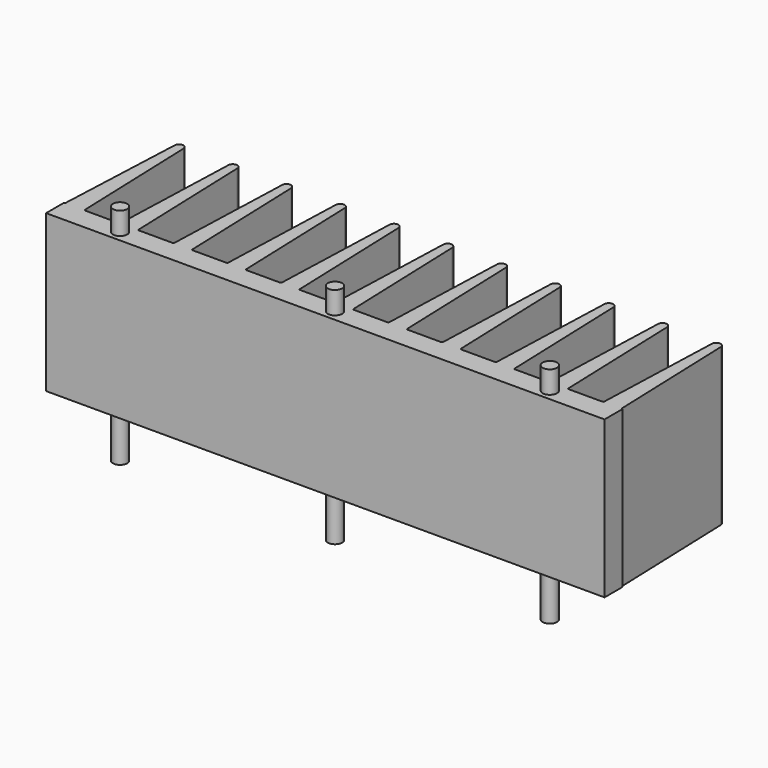
from build123d import *

# Parameters (mm, degrees)
PAD_DEPTH         = 35
CYLINDER_R        = 1.6
CYLINDER_DEPTH    = 50
CYLINDER001_R     = 1.6
CYLINDER001_DEPTH = 50
CYLINDER002_R     = 1.6
CYLINDER002_DEPTH = 50


with BuildPart() as body:
    # Sketch → Pad (new body)
    with BuildSketch(Plane.XY):
        with BuildLine():
            Line((62.24886, -2.54), (-62.5, -2.54))
            Line((-62.5, -2.54), (-62.5, 2.46126))
            ThreePointArc((-62.5, 2.46126), (-62.323223, 2.534483), (-62.25, 2.71126))
            Line((-62.25, 2.71126), (-60.98988, 31.46298))
            ThreePointArc((-59.00988, 31.46298), (-59.99988, 32.45298), (-60.98988, 31.46298))
            Line((-59.00988, 31.46298), (-58, 2.71126))
            ThreePointArc((-58, 2.71126), (-57.926777, 2.534483), (-57.75, 2.46126))
            Line((-57.75, 2.46126), (-50.2499, 2.46126))
            ThreePointArc((-50.2499, 2.46126), (-50.073123, 2.534483), (-49.9999, 2.71126))
            Line((-49.9999, 2.71126), (-48.99092, 31.46298))
            ThreePointArc((-47.01092, 31.46298), (-48.00092, 32.45298), (-48.99092, 31.46298))
            Line((-47.01092, 31.46298), (-46.00194, 2.71126))
            ThreePointArc((-46.00194, 2.71126), (-45.928717, 2.534483), (-45.75194, 2.46126))
            Line((-45.75194, 2.46126), (-38.2484, 2.46126))
            ThreePointArc((-38.2484, 2.46126), (-38.071623, 2.534483), (-37.9984, 2.71126))
            Line((-37.9984, 2.71126), (-36.98942, 31.46298))
            ThreePointArc((-35.00942, 31.46298), (-35.99942, 32.45298), (-36.98942, 31.46298))
            Line((-35.00942, 31.46298), (-34.00044, 2.71126))
            ThreePointArc((-34.00044, 2.71126), (-33.927217, 2.534483), (-33.75044, 2.46126))
            Line((-33.75044, 2.46126), (-26.24898, 2.46126))
            ThreePointArc((-26.24898, 2.46126), (-26.072203, 2.534483), (-25.99898, 2.71126))
            Line((-25.99898, 2.71126), (-24.99, 31.46298))
            ThreePointArc((-23.01, 31.46298), (-24, 32.45298), (-24.99, 31.46298))
            Line((-23.01, 31.46298), (-22.00102, 2.71126))
            ThreePointArc((-22.00102, 2.71126), (-21.927797, 2.534483), (-21.75102, 2.46126))
            Line((-21.75102, 2.46126), (-14.24898, 2.46126))
            ThreePointArc((-14.24898, 2.46126), (-14.072203, 2.534483), (-13.99898, 2.71126))
            Line((-13.99898, 2.71126), (-12.99, 31.46298))
            ThreePointArc((-11.01, 31.46298), (-12, 32.45298), (-12.99, 31.46298))
            Line((-11.01, 31.46298), (-10.00102, 2.71126))
            ThreePointArc((-10.00102, 2.71126), (-9.927797, 2.534483), (-9.75102, 2.46126))
            Line((-9.75102, 2.46126), (-2.24898, 2.46126))
            ThreePointArc((-2.24898, 2.46126), (-2.072203, 2.534483), (-1.99898, 2.71126))
            Line((-1.99898, 2.71126), (-0.99, 31.46298))
            ThreePointArc((0.99, 31.46298), (0, 32.45298), (-0.99, 31.46298))
            Line((0.99, 31.46298), (1.99898, 2.71126))
            ThreePointArc((1.99898, 2.71126), (2.072203, 2.534483), (2.24898, 2.46126))
            Line((2.24898, 2.46126), (9.75102, 2.46126))
            ThreePointArc((9.75102, 2.46126), (9.927797, 2.534483), (10.00102, 2.71126))
            Line((10.00102, 2.71126), (11.01, 31.46298))
            ThreePointArc((12.99, 31.46298), (12, 32.45298), (11.01, 31.46298))
            Line((12.99, 31.46298), (13.99898, 2.71126))
            ThreePointArc((13.99898, 2.71126), (14.072203, 2.534483), (14.24898, 2.46126))
            Line((14.24898, 2.46126), (21.75102, 2.46126))
            ThreePointArc((21.75102, 2.46126), (21.927797, 2.534483), (22.00102, 2.71126))
            Line((22.00102, 2.71126), (23.01, 31.46298))
            ThreePointArc((24.99, 31.46298), (24, 32.45298), (23.01, 31.46298))
            Line((24.99, 31.46298), (25.99898, 2.71126))
            ThreePointArc((25.99898, 2.71126), (26.072203, 2.534483), (26.24898, 2.46126))
            Line((26.24898, 2.46126), (33.75102, 2.46126))
            ThreePointArc((33.75102, 2.46126), (33.927797, 2.534483), (34.00102, 2.71126))
            Line((34.00102, 2.71126), (35.01, 31.46298))
            ThreePointArc((36.99, 31.46298), (36, 32.45298), (35.01, 31.46298))
            Line((36.99, 31.46298), (37.99898, 2.71126))
            ThreePointArc((37.99898, 2.71126), (38.072203, 2.534483), (38.24898, 2.46126))
            Line((38.24898, 2.46126), (45.75102, 2.46126))
            ThreePointArc((45.75102, 2.46126), (45.927797, 2.534483), (46.00102, 2.71126))
            Line((46.00102, 2.71126), (47.01, 31.46298))
            ThreePointArc((48.99, 31.46298), (48, 32.45298), (47.01, 31.46298))
            Line((48.99, 31.46298), (49.99898, 2.71126))
            ThreePointArc((49.99898, 2.71126), (50.072203, 2.534483), (50.24898, 2.46126))
            Line((50.24898, 2.46126), (57.7509, 2.46126))
            ThreePointArc((57.7509, 2.46126), (57.927677, 2.534483), (58.0009, 2.71126))
            Line((58.0009, 2.71126), (59.00988, 31.46298))
            ThreePointArc((60.98988, 31.46298), (59.99988, 32.45298), (59.00988, 31.46298))
            Line((60.98988, 31.46298), (61.99886, 2.71126))
            ThreePointArc((61.99886, 2.71126), (62.072083, 2.534483), (62.24886, 2.46126))
            Line((62.24886, -2.54), (62.24886, 2.46126))
        make_face()
    extrude(amount=PAD_DEPTH)


with BuildPart() as cylinder:
    # Cylinder → Cylinder (new body)
    with BuildSketch(Plane.XY.offset(-10)):
        Circle(CYLINDER_R)
    extrude(amount=CYLINDER_DEPTH)


with BuildPart() as cylinder001:
    # Cylinder001 → Cylinder001 (new body)
    with BuildSketch(Plane(origin=(-48, 0, -10), x_dir=(1, 0, 0), z_dir=(0, 0, 1))):
        Circle(CYLINDER001_R)
    extrude(amount=CYLINDER001_DEPTH)


with BuildPart() as cylinder002:
    # Cylinder002 → Cylinder002 (new body)
    with BuildSketch(Plane(origin=(48, 0, -10), x_dir=(1, 0, 0), z_dir=(0, 0, 1))):
        Circle(CYLINDER002_R)
    extrude(amount=CYLINDER002_DEPTH)


solid = Compound([body.part, cylinder.part, cylinder001.part, cylinder002.part])
